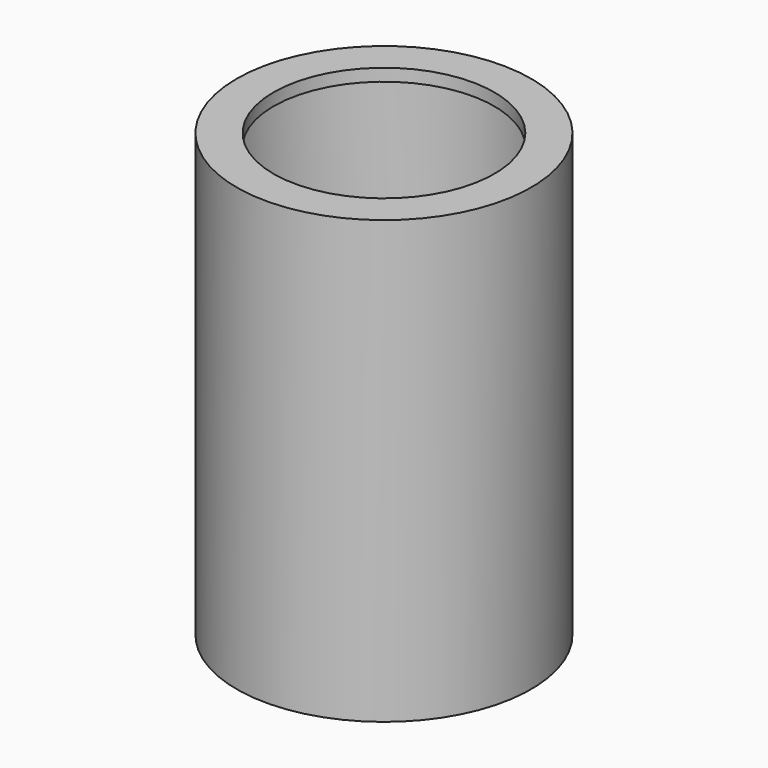
from build123d import *

# Parameters (mm, degrees)
F2_R     = 152.4
F2_R_2   = 44.45
F3_DEPTH = 6.35
F4_DEPTH = 12.7


with BuildPart() as f1:
    # F0 (on Front) → F1 (revolve)
    with BuildSketch(Plane.XZ):
        Polygon((-114.3, 215.9), (-114.3, 228.6), (-152.4, 228.6), (-152.4, -228.6), (-114.3, -228.6), (-114.3, -215.9), (-139.7, -215.9), (-139.7, 215.9), align=None)
    revolve(axis=Axis((0, 0, 0), (0, 0, -1)))

    # F2 (on Top) → F3 (join, symmetric)
    with BuildSketch(Plane.XY):
        Circle(F2_R)
        Circle(F2_R_2, mode=Mode.SUBTRACT)
    extrude(amount=F3_DEPTH, both=True)

    # F2 (on Top) → F4 (join, symmetric)
    with BuildSketch(Plane.XY):
        Circle(F2_R)
        Circle(F2_R_2, mode=Mode.SUBTRACT)
    extrude(amount=F4_DEPTH, both=True)


solid = f1.part
